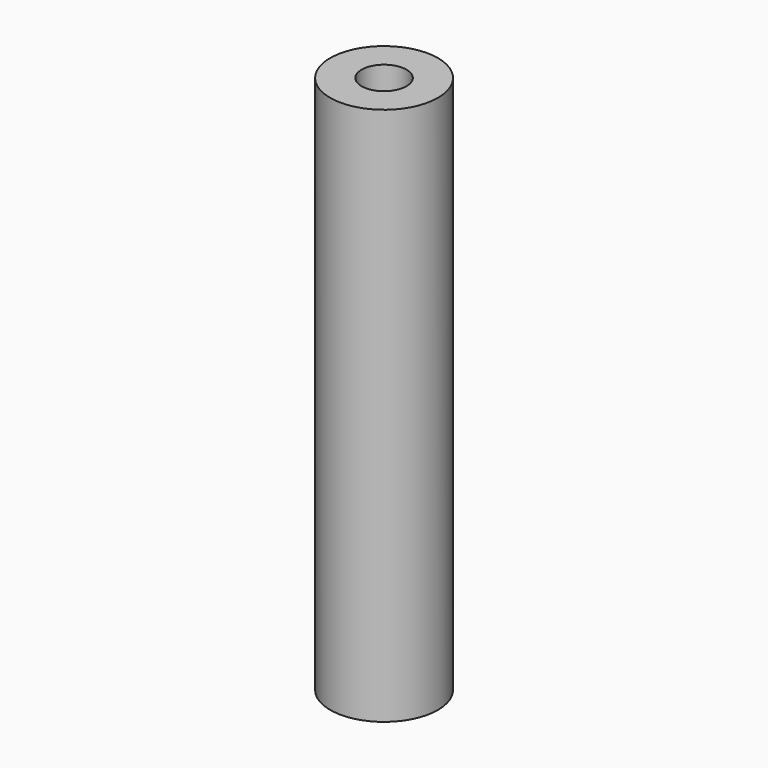
from build123d import *

# Parameters (mm, degrees)
F0_R     = 3
F0_R_2   = 1.25
F1_DEPTH = 30
F2_DEPTH = 9
F3_R     = 1.25
F4_DEPTH = 9


with BuildPart() as f1:
    # F0 (on Top) → F1 (new body)
    with BuildSketch(Plane.XY):
        Circle(F0_R)
        Circle(F0_R_2, mode=Mode.SUBTRACT)
        Circle(F0_R_2)
    extrude(amount=F1_DEPTH)

    # F0 (on Top) → F2 (cut)
    with BuildSketch(Plane.XY):
        Circle(F0_R_2)
    extrude(amount=F2_DEPTH, mode=Mode.SUBTRACT)

    # F3 (on face) → F4 (cut)
    with BuildSketch(Plane.XY.offset(30)):
        Circle(F3_R)
    extrude(amount=-F4_DEPTH, mode=Mode.SUBTRACT)


solid = f1.part
